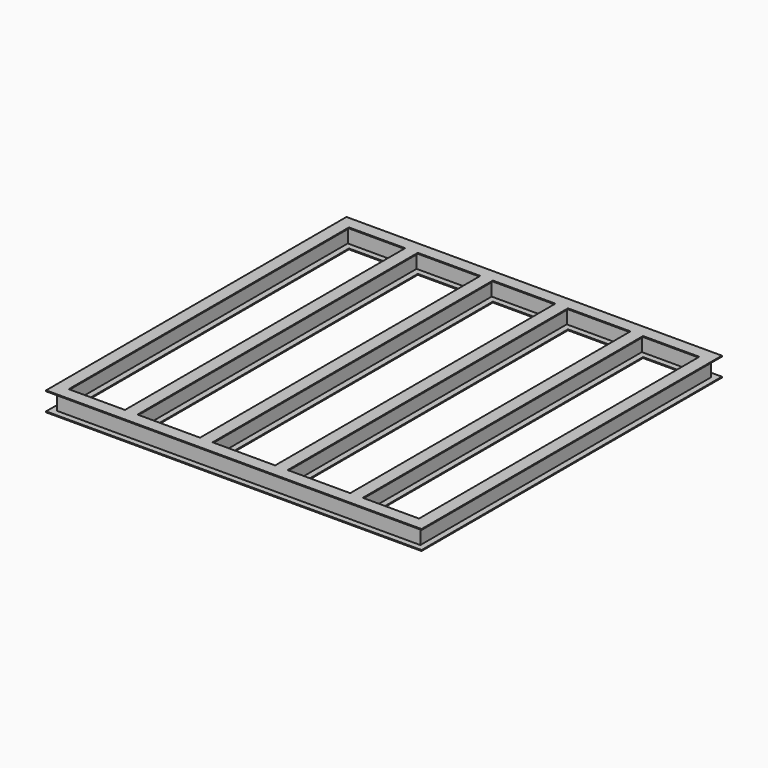
from build123d import *


with BuildPart() as f2:
    # F2: sweep along a path in F0
    with BuildLine(Plane.XY) as f2_path:
        Line((-1933.05, -1933.05), (1933.05, -1933.05))
        Line((1933.05, -1933.05), (1933.05, 1933.05))
        Line((1933.05, 1933.05), (-1933.05, 1933.05))
        Line((-1933.05, 1933.05), (-1933.05, -1933.05))
    # F1 (on Front) → F2 (sweep)
    with BuildSketch(Plane.XZ):
        Polygon((2000, 103.4), (1866.1, 103.4), (1866.1, 93.8), (1929.85, 93.8), (1929.85, -93.8), (1866.1, -93.8), (1866.1, -103.4), (2000, -103.4), (2000, -93.8), (1936.25, -93.8), (1936.25, 93.8), (2000, 93.8), align=None)
    sweep(path=f2_path.line, transition=Transition.RIGHT)

    # F5: sweep along a path in F0
    with BuildLine(Plane.XY) as f5_path:
        Line((1200, -1933.05), (1200, 1933.05))
    # F4 (on offset) → F5 (sweep)
    with BuildSketch(Plane(origin=(0, 1933.05, 0), x_dir=(-1, 0, 0), z_dir=(0, 1, 0))):
        Polygon((-1133.05, 103.4), (-1266.95, 103.4), (-1266.95, 93.8), (-1203.2, 93.8), (-1203.2, -93.8), (-1266.95, -93.8), (-1266.95, -103.4), (-1133.05, -103.4), (-1133.05, -93.8), (-1196.8, -93.8), (-1196.8, 93.8), (-1133.05, 93.8), align=None)
        Polygon((-466.95, -93.8), (-466.95, -103.4), (-333.05, -103.4), (-333.05, -93.8), (-396.8, -93.8), (-396.8, 93.8), (-333.05, 93.8), (-333.05, 103.4), (-466.95, 103.4), (-466.95, 93.8), (-403.2, 93.8), (-403.2, -93.8), align=None)
        Polygon((396.8, -93.8), (333.05, -93.8), (333.05, -103.4), (466.95, -103.4), (466.95, -93.8), (403.2, -93.8), (403.2, 93.8), (466.95, 93.8), (466.95, 103.4), (333.05, 103.4), (333.05, 93.8), (396.8, 93.8), align=None)
        Polygon((1133.05, 93.8), (1196.8, 93.8), (1196.8, -93.8), (1133.05, -93.8), (1133.05, -103.4), (1266.95, -103.4), (1266.95, -93.8), (1203.2, -93.8), (1203.2, 93.8), (1266.95, 93.8), (1266.95, 103.4), (1133.05, 103.4), align=None)
    sweep(path=f5_path.line)


solid = f2.part
